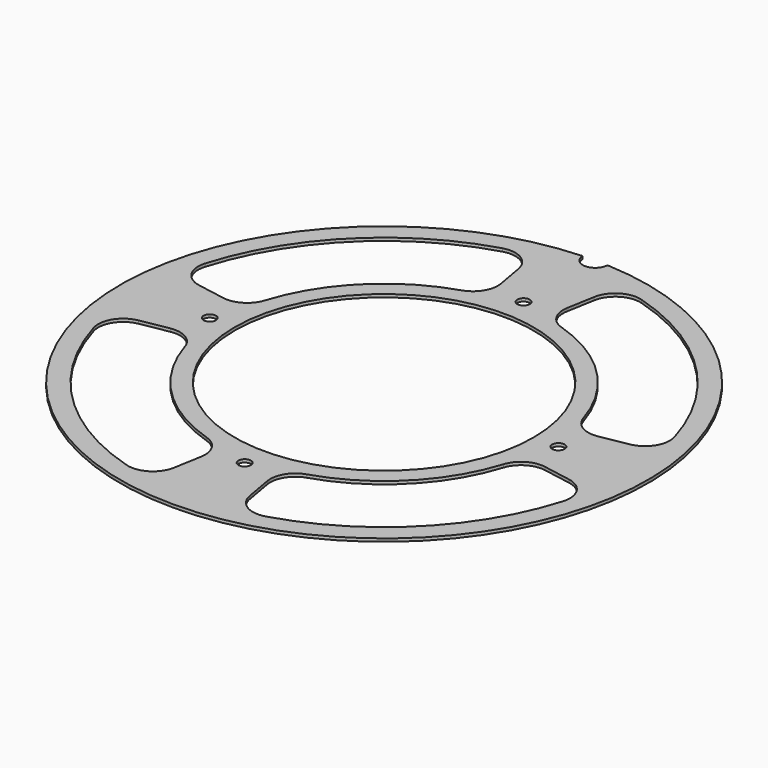
from build123d import *

# Parameters (mm, degrees)
F0_R     = 53
F0_R_2   = 30
F1_DEPTH = 0.6
F2_R     = 1.25
F3_DEPTH = 25
F5_DEPTH = 25
F7_DEPTH = 2


with BuildPart() as f1:
    # F0 (on Top) → F1 (new body)
    with BuildSketch(Plane.XY):
        Circle(F0_R)
        Circle(F0_R_2, mode=Mode.SUBTRACT)
    extrude(amount=F1_DEPTH)

    # F2 (on face) → F3 (cut)
    with BuildSketch(Plane.XY.offset(0.6)):
        with Locations((0, 35)):
            Circle(F2_R)
        with Locations((35, 0)):
            Circle(F2_R)
        with Locations((0, -35)):
            Circle(F2_R)
        with Locations((-35, 0)):
            Circle(F2_R)
    extrude(amount=-F3_DEPTH, mode=Mode.SUBTRACT)

    # F4 (on face) → F5 (cut)
    with BuildSketch(Plane.XY.offset(0.6)):
        with BuildLine():
            ThreePointArc((2.499305, 52.941038), (0, 53), (-2.499305, 52.941038))
            ThreePointArc((-2.499305, 52.941038), (0, 50.5), (2.499305, 52.941038))
        make_face()
    extrude(amount=-F5_DEPTH, mode=Mode.SUBTRACT)

    # F6 (on face) → F7 (cut)
    with BuildSketch(Plane.XY.offset(0.6)):
        with BuildLine():
            Line((-43.218802, 7.620641), (-37.609581, 6.631584))
            ThreePointArc((-37.609581, 6.631584), (-34.145946, 7.281991), (-31.971682, 10.055504))
            ThreePointArc((-31.971682, 10.055504), (-23.699173, 23.699173), (-10.055504, 31.971682))
            ThreePointArc((-10.055504, 31.971682), (-7.281991, 34.145946), (-6.631584, 37.609581))
            Line((-6.631584, 37.609581), (-7.620641, 43.218802))
            ThreePointArc((-7.620641, 43.218802), (-9.913604, 46.602319), (-13.964743, 47.144664))
            ThreePointArc((-13.964743, 47.144664), (-34.768041, 34.768041), (-47.144664, 13.964743))
            ThreePointArc((-47.144664, 13.964743), (-46.602319, 9.913604), (-43.218802, 7.620641))
        make_face()
        with BuildLine():
            Line((7.620641, 43.218802), (6.631584, 37.609581))
            ThreePointArc((6.631584, 37.609581), (7.281991, 34.145946), (10.055504, 31.971682))
            ThreePointArc((10.055504, 31.971682), (23.699173, 23.699173), (31.971682, 10.055504))
            ThreePointArc((31.971682, 10.055504), (34.145946, 7.281991), (37.609581, 6.631584))
            Line((37.609581, 6.631584), (43.218802, 7.620641))
            ThreePointArc((43.218802, 7.620641), (46.602319, 9.913604), (47.144664, 13.964743))
            ThreePointArc((47.144664, 13.964743), (34.768041, 34.768041), (13.964743, 47.144664))
            ThreePointArc((13.964743, 47.144664), (9.913604, 46.602319), (7.620641, 43.218802))
        make_face()
        with BuildLine():
            ThreePointArc((31.971682, -10.055504), (23.699173, -23.699173), (10.055504, -31.971682))
            ThreePointArc((10.055504, -31.971682), (7.281991, -34.145946), (6.631584, -37.609581))
            Line((6.631584, -37.609581), (7.620641, -43.218802))
            ThreePointArc((7.620641, -43.218802), (9.913604, -46.602319), (13.964743, -47.144664))
            ThreePointArc((13.964743, -47.144664), (34.768041, -34.768041), (47.144664, -13.964743))
            ThreePointArc((47.144664, -13.964743), (46.602319, -9.913604), (43.218802, -7.620641))
            Line((43.218802, -7.620641), (37.609581, -6.631584))
            ThreePointArc((37.609581, -6.631584), (34.145946, -7.281991), (31.971682, -10.055504))
        make_face()
        with BuildLine():
            ThreePointArc((-10.055504, -31.971682), (-23.699173, -23.699173), (-31.971682, -10.055504))
            ThreePointArc((-31.971682, -10.055504), (-34.145946, -7.281991), (-37.609581, -6.631584))
            Line((-37.609581, -6.631584), (-43.218802, -7.620641))
            ThreePointArc((-43.218802, -7.620641), (-46.602319, -9.913604), (-47.144664, -13.964743))
            ThreePointArc((-47.144664, -13.964743), (-34.768041, -34.768041), (-13.964743, -47.144664))
            ThreePointArc((-13.964743, -47.144664), (-9.913604, -46.602319), (-7.620641, -43.218802))
            Line((-7.620641, -43.218802), (-6.631584, -37.609581))
            ThreePointArc((-6.631584, -37.609581), (-7.281991, -34.145946), (-10.055504, -31.971682))
        make_face()
    extrude(amount=-F7_DEPTH, mode=Mode.SUBTRACT)


solid = f1.part
